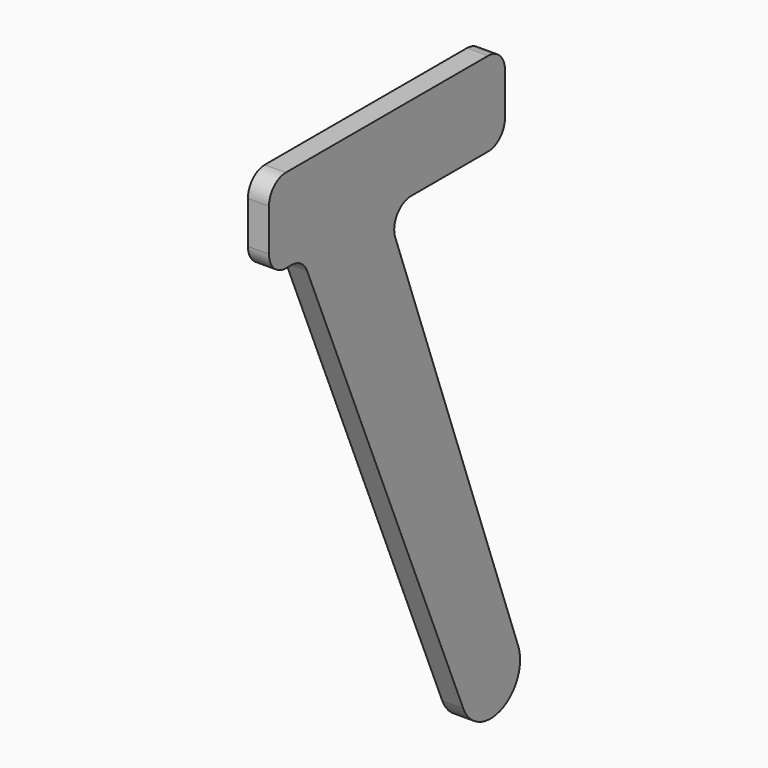
from build123d import *

# Parameters (mm, degrees)
F1_DEPTH = 12.7


with BuildPart() as f1:
    # F0 (on Right) → F1 (new body, symmetric)
    with BuildSketch(Plane.YZ):
        with BuildLine():
            Line((130.597452, 0), (246.722493, 0))
            ThreePointArc((246.722493, 0), (264.683005, 7.439488), (272.122493, 25.4))
            Line((272.122493, 25.4), (272.122493, 76.2))
            ThreePointArc((272.122493, 76.2), (264.683005, 94.160512), (246.722493, 101.6))
            Line((246.722493, 101.6), (-58.077507, 101.6))
            ThreePointArc((-58.077507, 101.6), (-76.038019, 94.160512), (-83.477507, 76.2))
            Line((-83.477507, 76.2), (-83.477507, 25.4))
            ThreePointArc((-83.477507, 25.4), (-76.038019, 7.439488), (-58.077507, 0))
            Line((-58.077507, 0), (-49.55408, 0))
            ThreePointArc((-49.55408, 0), (-35.497441, -4.244128), (-26.138297, -15.558196))
            Line((-26.138297, -15.558196), (209.428738, -576.023158))
            ThreePointArc((209.428738, -576.023158), (266.624167, -600.185809), (292.175695, -543.597205))
            Line((292.175695, -543.597205), (106.72926, -34.087312))
            ThreePointArc((106.72926, -34.087312), (109.790991, -10.831159), (130.597452, 0))
        make_face()
    extrude(amount=F1_DEPTH, both=True)


solid = f1.part
